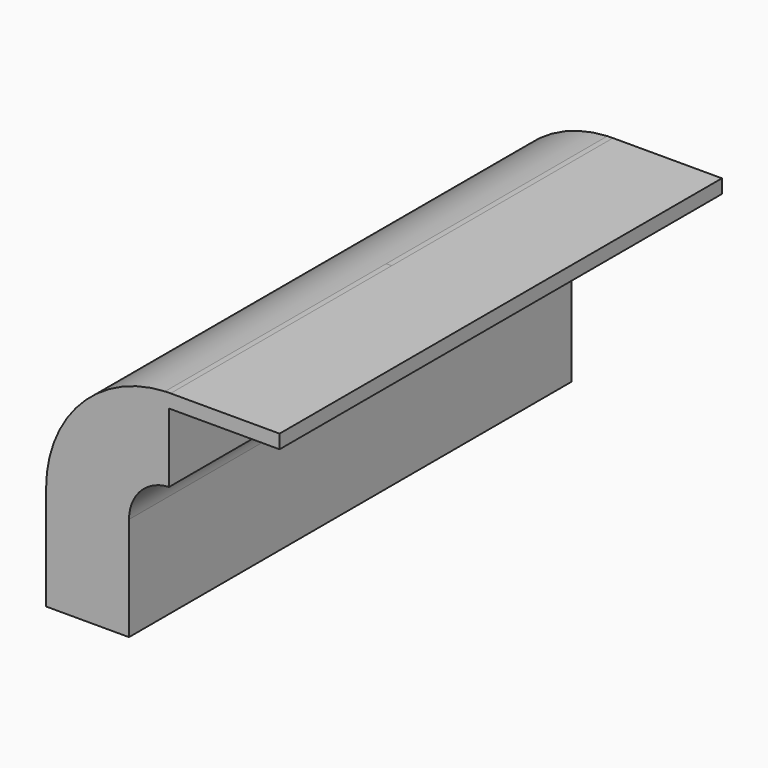
from build123d import *

# Parameters (mm, degrees)
F1_DEPTH = 63.5


with BuildPart() as f1:
    # F0 (on Front) → F1 (new body, symmetric)
    with BuildSketch(Plane.XZ):
        with BuildLine():
            Line((22.225, 33.32649), (22.225, 9.525))
            Line((22.225, 9.525), (41.275, 9.525))
            Line((41.275, 9.525), (41.275, 33.32649))
            ThreePointArc((41.275, 33.32649), (43.941213, 39.945334), (50.450921, 42.86792))
            Line((50.450921, 42.86792), (50.450921, 58.7502))
            Line((50.450921, 58.7502), (75.850921, 58.7502))
            Line((75.850921, 58.7502), (75.850921, 61.9252))
            Line((75.850921, 61.9252), (50.82371, 61.9252))
            add(Edge.make_bspline(
                [(49.53475, 61.896138), (49.965303, 61.908992), (50.394979, 61.918694), (50.82371, 61.9252)],
                knots=[104.865796, 104.865796, 104.865796, 104.865796, 105.962038, 105.962038, 105.962038, 105.962038], degree=3))
            ThreePointArc((49.53475, 61.896138), (30.150674, 53.087861), (22.225, 33.32649))
        make_face()
    extrude(amount=F1_DEPTH, both=True)


solid = f1.part
